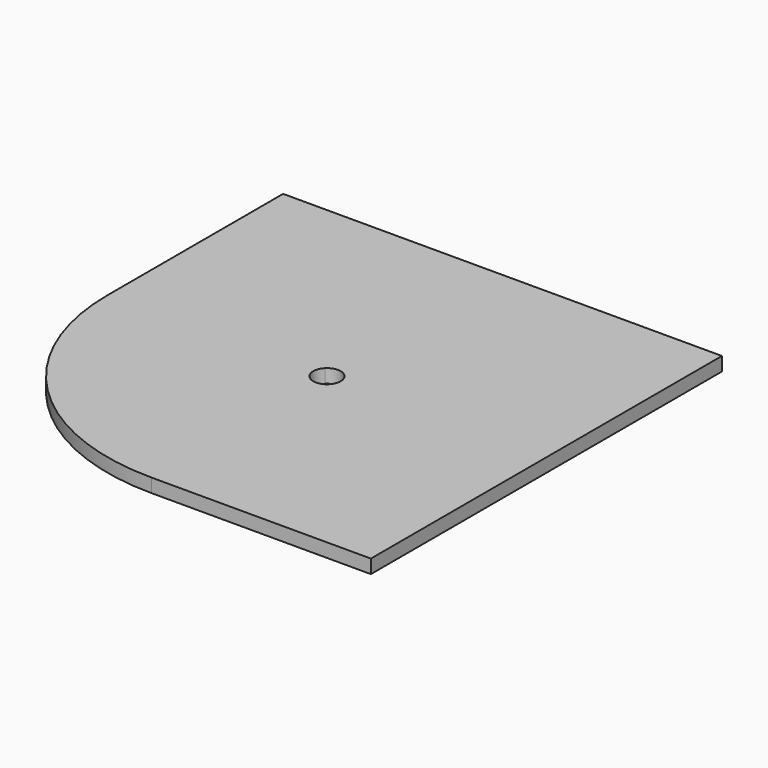
from build123d import *

# Parameters (mm, degrees)
F1_DEPTH = 3.175


with BuildPart() as f1:
    # F0 (on Top) → F1 (new body)
    with BuildSketch(Plane.XY):
        with BuildLine():
            Line((-25.9162820876, 81.5974989146), (-25.9162820876, 30.7974989146))
            ThreePointArc((-25.9162820876, 30.7974989146), (-22.0493623391, 50.2378172787), (-11.0373065718, 66.7185233989))
            Line((-11.0373065718, 66.7185233989), (-25.9162820876, 81.5974989146))
        make_face()
        with BuildLine():
            ThreePointArc((-25.9162820876, 30.7974989146), (-11.0373065718, -5.1235255697), (24.8837179124, -20.0025010854))
            ThreePointArc((24.8837179124, -20.0025010854), (44.3240362766, -16.135581337), (60.8047423967, -5.1235255697))
            Line((60.8047423967, -5.1235255697), (27.1287819427, 28.5524348843))
            ThreePointArc((27.1287819427, 28.5524348843), (22.6386538822, 28.5524348843), (22.6386538822, 33.0425629449))
            Line((22.6386538822, 33.0425629449), (-11.0373065718, 66.7185233989))
            ThreePointArc((-11.0373065718, 66.7185233989), (-22.0493623391, 50.2378172787), (-25.9162820876, 30.7974989146))
        make_face()
        with BuildLine():
            ThreePointArc((60.8047423967, -5.1235255697), (44.3240362766, -16.135581337), (24.8837179124, -20.0025010854))
            Line((24.8837179124, -20.0025010854), (75.6837179124, -20.0025010854))
            Line((75.6837179124, -20.0025010854), (60.8047423967, -5.1235255697))
        make_face()
        with BuildLine():
            Line((60.8047423967, -5.1235255697), (75.6837179124, -20.0025010854))
            Line((75.6837179124, -20.0025010854), (75.6837179124, 30.7974989146))
            ThreePointArc((75.6837179124, 30.7974989146), (71.816798164, 11.3571805505), (60.8047423967, -5.1235255697))
        make_face()
        with BuildLine():
            Line((27.1287819427, 28.5524348843), (60.8047423967, -5.1235255697))
            ThreePointArc((60.8047423967, -5.1235255697), (71.816798164, 11.3571805505), (75.6837179124, 30.7974989146))
            ThreePointArc((75.6837179124, 30.7974989146), (60.8047423967, 66.7185233989), (24.8837179124, 81.5974989146))
            ThreePointArc((24.8837179124, 81.5974989146), (5.4433995483, 77.7305791662), (-11.0373065718, 66.7185233989))
            Line((-11.0373065718, 66.7185233989), (22.6386538822, 33.0425629449))
            ThreePointArc((22.6386538822, 33.0425629449), (26.0987378102, 33.7308164303), (28.0587179124, 30.7974989146))
            ThreePointArc((28.0587179124, 30.7974989146), (27.8170354282, 29.5824790168), (27.1287819427, 28.5524348843))
        make_face()
        with BuildLine():
            Line((24.8837179124, 81.5974989146), (-25.9162820876, 81.5974989146))
            Line((-25.9162820876, 81.5974989146), (-11.0373065718, 66.7185233989))
            ThreePointArc((-11.0373065718, 66.7185233989), (5.4433995483, 77.7305791662), (24.8837179124, 81.5974989146))
        make_face()
        with BuildLine():
            ThreePointArc((24.8837179124, 81.5974989146), (60.8047423967, 66.7185233989), (75.6837179124, 30.7974989146))
            Line((75.6837179124, 30.7974989146), (75.6837179124, 81.5974989146))
            Line((75.6837179124, 81.5974989146), (24.8837179124, 81.5974989146))
        make_face()
    extrude(amount=F1_DEPTH)


solid = f1.part
